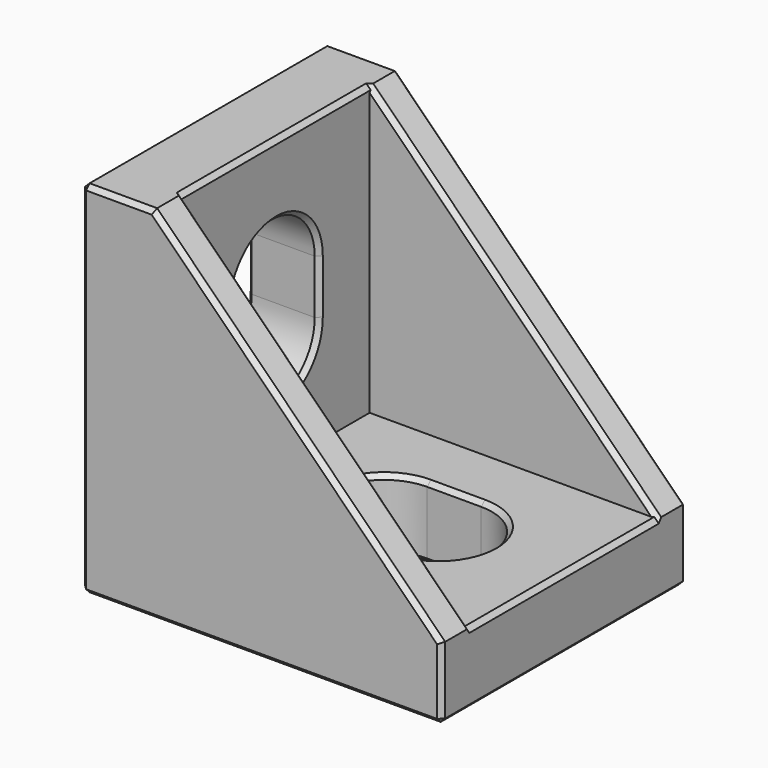
from build123d import *

# Parameters (mm, degrees)
PAD_DEPTH       = 8.5
SKETCH001_W     = 16
SKETCH001_H     = 13
POCKET_DEPTH    = 16
POCKET001_DEPTH = 5
POCKET002_DEPTH = 5
SKETCH004_W     = 2
SKETCH004_H     = 4
PAD001_DEPTH    = 1
SKETCH005_W     = 2
SKETCH005_H     = 4
PAD002_DEPTH    = 1
CHAMFER_SIZE    = 0.25
CHAMFER001_SIZE = 0.25
CHAMFER002_SIZE = 0.25


with BuildPart() as part:
    # Sketch → Pad (new body, symmetric)
    with BuildSketch(Plane.XZ):
        Polygon((0, 0), (20, 0), (20, 4), (4, 20), (0, 20), align=None)
    extrude(amount=PAD_DEPTH, both=True)

    # Sketch001 (on Face4 of Pad) → Pocket (cut)
    with BuildSketch(Plane(origin=(0, 0, 20), x_dir=(-1, 0, 0), z_dir=(0, 0, 1))):
        with Locations((-12, 0)):
            Rectangle(SKETCH001_W, SKETCH001_H)
    extrude(amount=-POCKET_DEPTH, mode=Mode.SUBTRACT)

    # Sketch002 (on Face2 of Pocket) → Pocket001 (cut)
    with BuildSketch(Plane(origin=(0, 0, 0), x_dir=(0, 0, -1), z_dir=(-1, 0, 0))):
        with BuildLine():
            ThreePointArc((-13, 3), (-16, 0), (-13, -3))
            Line((-13, -3), (-10, -3))
            ThreePointArc((-10, -3), (-7, 0), (-10, 3))
            Line((-13, 3), (-10, 3))
        make_face()
    extrude(amount=-POCKET001_DEPTH, mode=Mode.SUBTRACT)

    # Sketch003 (on Face1 of Pocket001) → Pocket002 (cut)
    with BuildSketch(Plane(origin=(0, 0, 0), x_dir=(1, 0, 0), z_dir=(0, 0, -1))):
        with BuildLine():
            ThreePointArc((10, 3), (7, 0), (10, -3))
            Line((10, -3), (13, -3))
            ThreePointArc((13, -3), (16, 0), (13, 3))
            Line((10, 3), (13, 3))
        make_face()
    extrude(amount=-POCKET002_DEPTH, mode=Mode.SUBTRACT)

    # Sketch004 (on Face1 of Pocket002) → Pad001 (join)
    with BuildSketch(Plane(origin=(0, 0, 0), x_dir=(1, 0, 0), z_dir=(0, 0, -1))):
        with Locations((3.5, 0)):
            Rectangle(SKETCH004_W, SKETCH004_H)
        with Locations((17.5, 0)):
            Rectangle(SKETCH004_W, SKETCH004_H)
    extrude(amount=PAD001_DEPTH)

    # Sketch005 (on Face2 of Pad001) → Pad002 (join)
    with BuildSketch(Plane(origin=(0, 0, 0), x_dir=(0, 0, -1), z_dir=(-1, 0, 0))):
        with Locations((-17.5, 0)):
            Rectangle(SKETCH005_W, SKETCH005_H)
        with Locations((-3.5, 0)):
            Rectangle(SKETCH005_W, SKETCH005_H)
    extrude(amount=PAD002_DEPTH)

    # Chamfer
    chamfer_edges = [part.edges().sort_by_distance(p)[0] for p in [
        (2, -8.5, 20),
        (0, -8.5, 10),
        (10, -8.5, 0),
        (0, 0, 0),
        (10, 8.5, 0),
        (0, 8.5, 10),
        (20, 0, 0),
        (20, 8.5, 2),
        (20, -8.5, 2),
        (16, 0, 4),
        (16, 0, 0),
        (0, 0, 7),
        (0, 0, 20),
        (2, 8.5, 20),
        (12, -8.5, 12),
        (12, 8.5, 12),
        (20, 0, 4),
        (4, 0, 16),
        (4, 0, 20),
    ]]
    chamfer(chamfer_edges, length=CHAMFER_SIZE)

    # Chamfer001
    chamfer001_edges = [part.edges().sort_by_distance(p)[0] for p in [
        (12, -6.5, 12),
    ]]
    chamfer(chamfer001_edges, length=CHAMFER001_SIZE)

    # Chamfer002
    chamfer002_edges = [part.edges().sort_by_distance(p)[0] for p in [
        (12, 6.5, 12),
    ]]
    chamfer(chamfer002_edges, length=CHAMFER002_SIZE)


solid = part.part
